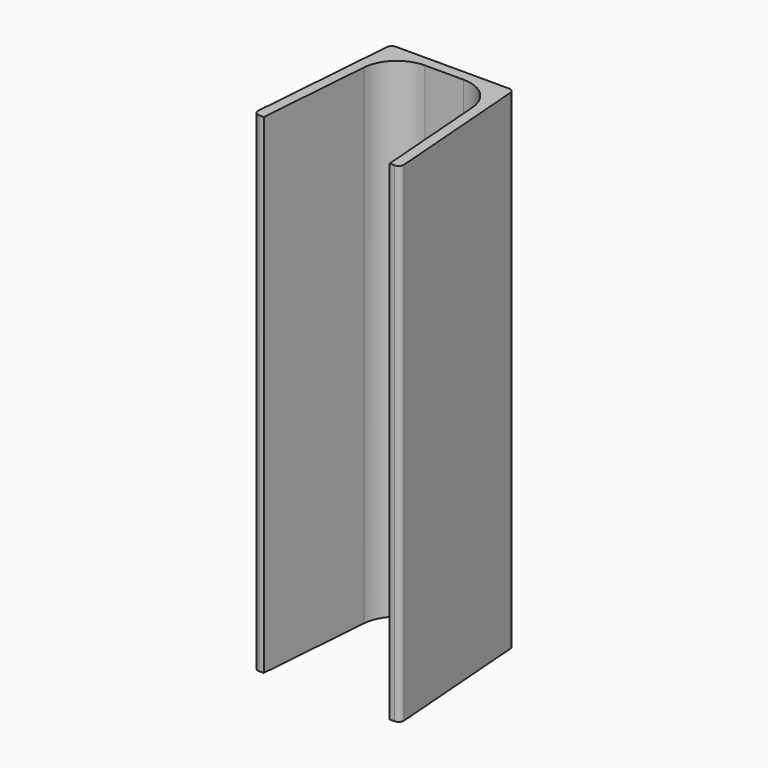
from build123d import *

# Parameters (mm, degrees)
PAD_DEPTH = 140


with BuildPart() as part:
    # Sketch → Pad (new body)
    with BuildSketch(Plane.XY):
        with BuildLine():
            Line((16.176132, 3), (-16.176132, 3))
            ThreePointArc((-16.176132, 3), (-17.195642, 2.600273), (-17.671784, 1.614134))
            Line((-17.671784, 1.614134), (-20.876825, -40.385866))
            ThreePointArc((-20.876825, -40.385866), (-20.481446, -41.519509), (-19.381173, -42))
            Line((-19.381173, -42), (-18, -42))
            Line((-18, -42), (-15.5, -9.239107))
            ThreePointArc((-5.52899, 0), (-12.32572, -2.664847), (-15.5, -9.239107))
            Line((-5.52899, 0), (5.52899, 0))
            ThreePointArc((15.5, -9.239107), (12.32572, -2.664847), (5.52899, 0))
            Line((15.5, -9.239107), (18, -42))
            Line((18, -42), (19.381173, -42))
            ThreePointArc((19.381173, -42), (20.481446, -41.519509), (20.876825, -40.385866))
            Line((20.876825, -40.385866), (17.671784, 1.614134))
            ThreePointArc((17.671784, 1.614134), (17.195642, 2.600273), (16.176132, 3))
        make_face()
    extrude(amount=PAD_DEPTH)


solid = part.part
